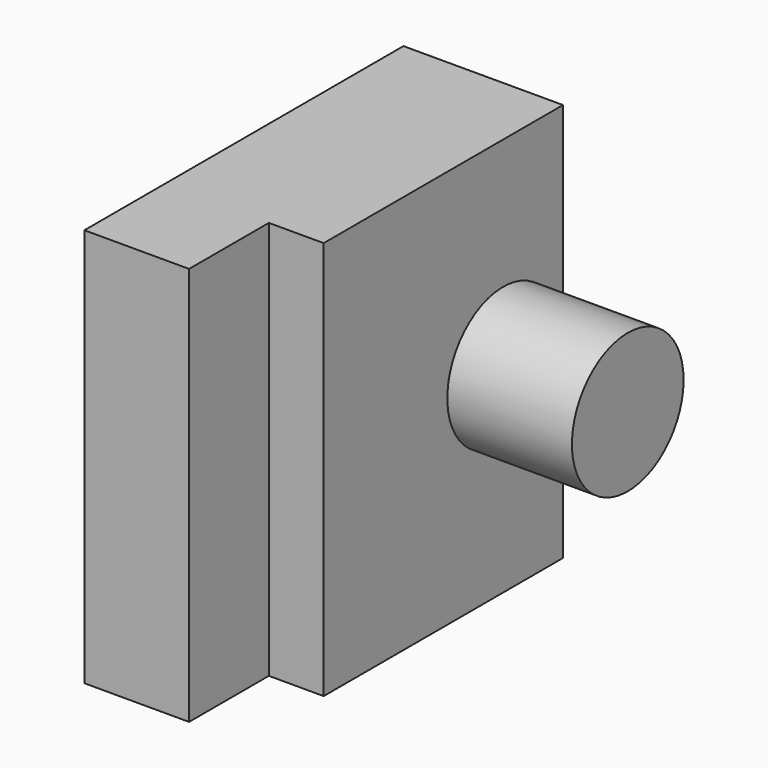
from build123d import *

# Parameters (mm, degrees)
F1_DEPTH = 8
F2_R     = 1.4
F3_DEPTH = 2.5


with BuildPart() as f1:
    # F0 (on Top) → F1 (new body)
    with BuildSketch(Plane.XY):
        Polygon((-34.336084, 21.440722), (-34.336084, 13.440722), (-32.236084, 13.440722), (-32.236084, 15.440722), (-31.136084, 15.440722), (-31.136084, 21.440722), align=None)
    extrude(amount=F1_DEPTH)

    # F2 (on face) → F3 (join)
    with BuildSketch(Plane.YZ.offset(-31.136084)):
        with Locations((19.940722, 4)):
            Circle(F2_R)
    extrude(amount=F3_DEPTH)


solid = f1.part
